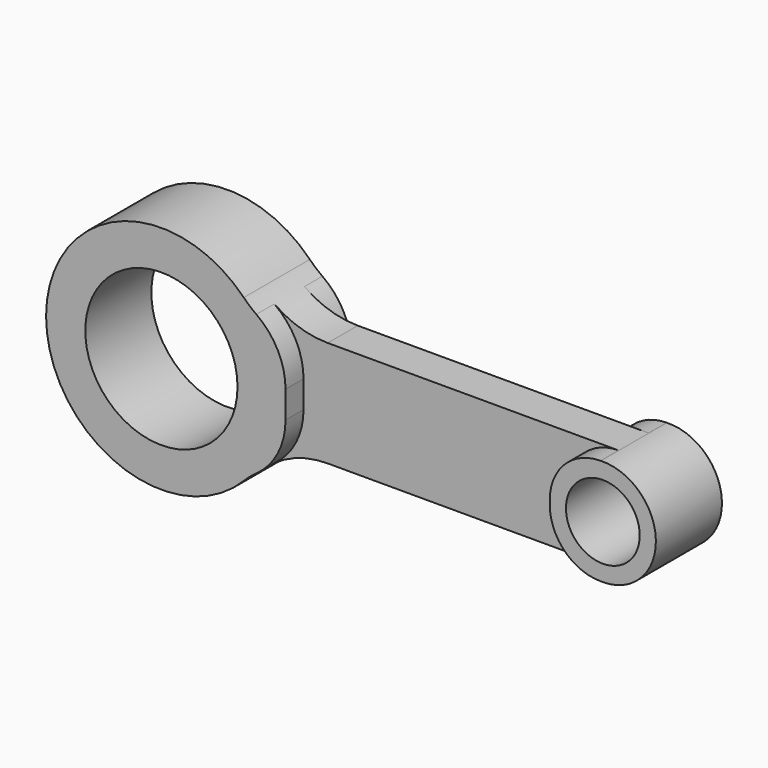
from build123d import *

# Parameters (mm, degrees)
F0_R          = 16.5
F0_R_2        = 8
F1_DEPTH      = 17.9
F2_W          = 57.2901275009
F2_H          = 11.0436469637
F2_H_2        = 10.7600754127
F3_DEPTH      = 25.001
F3_DEPTH_BACK = 25.001
F4_R          = 11
F5_R          = 11
F6_R          = 11
F7_R          = 15


with BuildPart() as f1:
    # F0 (on Front) → F1 (new body)
    with BuildSketch(Plane.XZ):
        with BuildLine():
            Line((32.137329833, -11.4990798469), (95.5545260385, -11.4990798469))
            Line((95.5545260385, -11.4990798469), (95.8454739615, -11.4990798469))
            ThreePointArc((95.8454739615, -11.4990798469), (107.1962842582, 0.2923153343), (95.2608909699, 11.4916136056))
            Line((95.2608909699, 11.4916136056), (32.1446460941, 11.4916136056))
            ThreePointArc((32.1446460941, 11.4916136056), (24.3962738222, 13.0535354211), (17.858136719, 17.495340892))
            ThreePointArc((17.858136719, 17.495340892), (-24.9999998314, 0.0029037072), (17.8540721294, -17.4994888039))
            ThreePointArc((17.8540721294, -17.4994888039), (24.3910991645, -13.0601018267), (32.137329833, -11.4990798469))
        make_face()
        Circle(F0_R, mode=Mode.SUBTRACT)
        with Locations((95.7, 0)):
            Circle(F0_R_2, mode=Mode.SUBTRACT)
    extrude(amount=F1_DEPTH)

    # F2 (on Top) → F3 (cut, two sides)
    with BuildSketch(Plane.XY) as f3_sk:
        with Locations((55.5549362496, 0.6468234818)):
            Rectangle(F2_W, F2_H)
        with Locations((55.5549362496, -18.4050377063)):
            Rectangle(F2_W, F2_H_2)
    extrude(amount=-F3_DEPTH, mode=Mode.SUBTRACT)
    extrude(f3_sk.sketch, amount=F3_DEPTH_BACK, mode=Mode.SUBTRACT)

    # F4
    f4_edges = [f1.edges().sort_by_distance(p)[0] for p in [
        (84.2, -2.4375, -11.49908),
    ]]
    fillet(f4_edges, radius=F4_R)

    # F5
    f5_edges = [f1.edges().sort_by_distance(p)[0] for p in [
        (84.2, -2.4375, 11.491614),
    ]]
    fillet(f5_edges, radius=F5_R)

    # F6
    f6_edges = [f1.edges().sort_by_distance(p)[0] for p in [
        (84.2, -15.4625, -11.49908),
        (84.2, -15.4625, 11.491614),
    ]]
    fillet(f6_edges, radius=F6_R)

    # F7
    f7_edges = [f1.edges().sort_by_distance(p)[0] for p in [
        (26.909872, -2.4375, -12.194322),
        (26.909872, -2.4375, 12.188838),
        (26.909872, -15.4625, -12.194322),
        (26.909872, -15.4625, 12.188838),
    ]]
    fillet(f7_edges, radius=F7_R)


solid = f1.part
